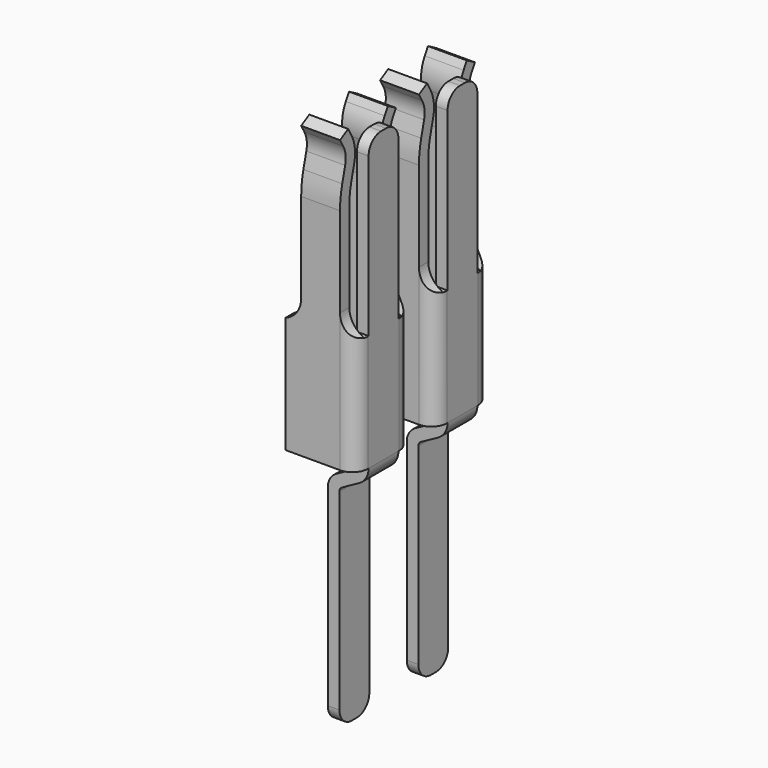
from build123d import *

# Parameters (mm, degrees)
SKETCH005_W                          = 0.9
SKETCH005_H                          = 0.9
EXTRUDE003_DEPTH                     = 4
FILLET002_R                          = 0.2
EXTRUDE004_DEPTH                     = 1
EXTRUDE004_ONTO_SKETCH008_ROLL_ANGLE = 90
SKETCH007_W                          = 0.9
SKETCH007_H                          = 0.15
EXTRUDE002_DEPTH                     = 1.5
FILLET001_R                          = 0.2
THICKNESS_T                          = -0.15
SKETCH004_W                          = 0.15
SKETCH004_H                          = 0.48
FILLET_R                             = 0.2
ARRAY006_Y_COUNT                     = 2
ARRAY006_Y_PITCH                     = 1.27


with BuildPart() as fillet002:
    # Sketch005 → Extrude003 (new body)
    with BuildSketch(Plane.XY.offset(0.06)):
        Rectangle(SKETCH005_W, SKETCH005_H)
    extrude(amount=EXTRUDE003_DEPTH)

    # Fillet002
    fillet002_edges = [fillet002.edges().sort_by_distance(p)[0] for p in [
        (0.45, 0.45, 2.06),
        (0.45, -0.45, 2.06),
    ]]
    fillet(fillet002_edges, radius=FILLET002_R)


with BuildPart() as extrude004:
    # Sketch008 as drawn → Extrude004 (new)
    with BuildSketch(Plane.XY):
        with BuildLine():
            Line((-0.25, 3.976049), (-0.25, 1.843157))
            ThreePointArc((-0.437624, 1.565), (-0.301291, 1.675397), (-0.25, 1.843157))
            Line((-0.437624, 1.565), (-0.45, 1.56))
            Line((-0.905765, 1.56), (-0.45, 1.56))
            Line((-0.905765, 3.976049), (-0.905765, 1.56))
            Line((-0.25, 3.976049), (-0.905765, 3.976049))
        make_face()
    extrude(amount=-EXTRUDE004_DEPTH)


with BuildPart() as extrude004_1:
    # Extrude004 onto Sketch008 roll: moved
    add(extrude004.part.rotate(Axis((0, 0, 0), (1, 0, 0)), EXTRUDE004_ONTO_SKETCH008_ROLL_ANGLE))


with BuildPart() as extrude004_2:
    # Extrude004 onto Sketch008 placement: moved
    add(extrude004_1.part.moved(Location((0, -0.45, 0))))


with BuildPart() as fusion:
    # Part__Mirroring: instance of Extrude004
    add(extrude004_2.part.mirror(Plane(origin=(0, 0, 0), x_dir=(0, -1, 0), z_dir=(1, 0, 0))))

    # Fusion: union Extrude004
    add(extrude004_2.part)


with BuildPart() as common:
    # Sweep001: sweep along a path in Sketch006
    with BuildLine(Plane(origin=(0, 0, 0), x_dir=(0, -1, 0), z_dir=(-1, 0, 0))) as sweep001_path:
        Line((0.45, 1.56), (0.45, 3))
        ThreePointArc((0.45, 3), (0.441029, 3.146792), (0.414248, 3.291399))
        Line((0.414248, 3.291399), (0.367236, 3.480101))
        ThreePointArc((0.367236, 3.480101), (0.360881, 3.598166), (0.398859, 3.710136))
        Line((0.398859, 3.710136), (0.45, 3.8))
    # Sketch007 → Sweep001 (sweep)
    with BuildSketch(Plane.XY.offset(1.56)):
        with Locations((0, -0.375)):
            Rectangle(SKETCH007_W, SKETCH007_H)
    sweep(path=sweep001_path.line, is_frenet=True)

    # Cut001: cut Fusion
    add(fusion.part, mode=Mode.SUBTRACT)

    # Common: intersect Fillet002
    add(fillet002.part, mode=Mode.INTERSECT)


with BuildPart() as thickness:
    # Sketch005 → Extrude002 (new body)
    with BuildSketch(Plane.XY.offset(0.06)):
        Rectangle(SKETCH005_W, SKETCH005_H)
    extrude(amount=EXTRUDE002_DEPTH)

    # Fillet001
    fillet001_edges = [thickness.edges().sort_by_distance(p)[0] for p in [
        (0.45, 0.45, 0.81),
        (0.45, -0.45, 0.81),
    ]]
    fillet(fillet001_edges, radius=FILLET001_R)

    # Thickness
    thickness_openings = [thickness.faces().sort_by_distance(p)[0] for p in [
        (-0.008777, 0, 1.56),
        (-0.45, 0, 0.81),
        (-0.008777, 0, 0.06),
    ]]
    offset(amount=THICKNESS_T, openings=thickness_openings, kind=Kind.INTERSECTION)


with BuildPart() as fillet_body:
    # Sweep: sweep along a path in Sketch003
    with BuildLine(Plane.XZ) as sweep_path:
        Line((0, -3), (0, -0.322351))
        ThreePointArc((0, -0.322351), (0.0193, -0.251897), (0.071813, -0.201115))
        Line((0.071813, -0.201115), (0.291701, -0.080628))
        ThreePointArc((0.291701, -0.080628), (0.352612, -0.021724), (0.375, 0.06))
        Line((0.375, 0.06), (0.375, 3.8))
    # Sketch004 → Sweep (sweep)
    with BuildSketch(Plane.XY.offset(-3)):
        Rectangle(SKETCH004_W, SKETCH004_H)
    sweep(path=sweep_path.line, is_frenet=True)

    # Fillet
    fillet_edges = [fillet_body.edges().sort_by_distance(p)[0] for p in [
        (0, 0.24, -3),
        (0, -0.24, -3),
        (0.375, 0.24, 3.8),
        (0.375, -0.24, 3.8),
    ]]
    fillet(fillet_edges, radius=FILLET_R)


with BuildPart() as array006:
    # Part__Mirroring001: instance of Common
    add(common.part.mirror(Plane(origin=(0, 0, 0), x_dir=(1, 0, 0), z_dir=(0, 1, 0))))

    # Fusion001: union Common, Thickness, Fillet body
    add(common.part)
    add(thickness.part)
    add(fillet_body.part)


with BuildPart() as array006_1:
    # Fusion001 placement: moved
    add(array006.part.moved(Location((0, 0, 0.1))))

    # Array006 Y: Array006 ×2


with BuildPart() as array006_2:
    add(array006_1.part)
    with Locations(*[(0, i * ARRAY006_Y_PITCH, 0) for i in range(1, ARRAY006_Y_COUNT)]):
        add(array006_1.part)


solid = array006_2.part
